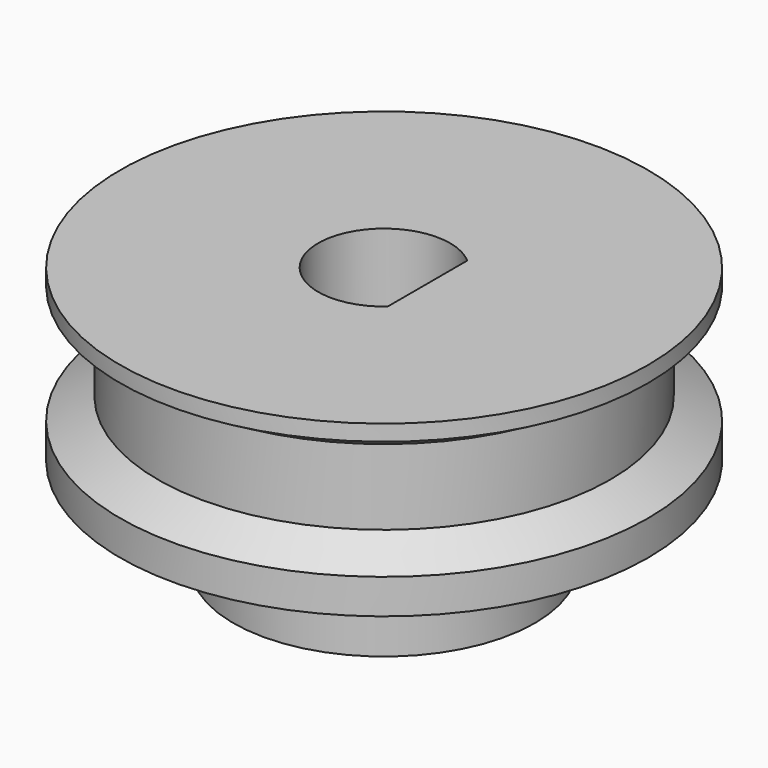
from build123d import *

# Parameters (mm, degrees)
F3_DEPTH = 7.001


with BuildPart() as f1:
    # F0 (on Front) → F1 (revolve)
    with BuildSketch(Plane.XZ):
        Polygon((0, 7), (0, 0), (4, 0), (4, 2.5), (7, 2.5), (7, 7), align=None)
    revolve(axis=Axis((0, 0, 3.5), (0, 0, -1)))

    # F2 (on face) → F3 (cut, through all)
    with BuildSketch(Plane.XY.offset(7)):
        with BuildLine():
            Line((1.15, -1.319091), (1.15, 1.319091))
            ThreePointArc((1.15, 1.319091), (-1.75, 0), (1.15, -1.319091))
        make_face()
    extrude(amount=-F3_DEPTH, mode=Mode.SUBTRACT)

    # F4 (on Front) → F5 (revolve, cut)
    with BuildSketch(Plane.XZ):
        Polygon((6, 4), (8.598076, 2.5), (8.598076, 7.5), (6, 6), align=None)
    revolve(axis=Axis((0, 0, 7), (0, 0, -1)), mode=Mode.SUBTRACT)


solid = f1.part
